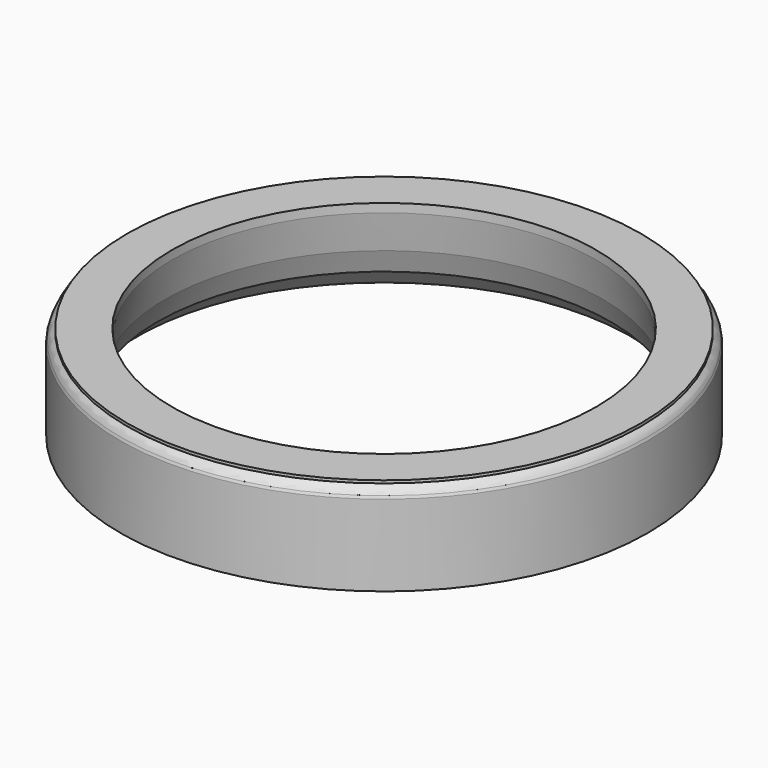
from build123d import *


with BuildPart() as f1:
    # F0 (on Front) → F1 (revolve)
    with BuildSketch(Plane.XZ):
        with BuildLine():
            Line((12.3, 1.707111), (13.4, 0.644853))
            Line((13.4, 0.644853), (14, 0.298443))
            Line((14, 0.298443), (14.3, 0.298443))
            Line((14.3, 0.298443), (14.3, 4.698443))
            Line((14.3, 4.698443), (14.248697, 4.839397))
            ThreePointArc((14.248697, 4.839397), (14.116123, 5.072353), (13.914043, 5.248443))
            Line((13.914043, 5.248443), (13.914043, 5.398443))
            Line((13.914043, 5.398443), (11.5, 5.398443))
            Line((11.5, 5.398443), (11.5, 4.928424))
            Line((11.5, 4.928424), (11.85, 2.943476))
            Line((11.85, 2.943476), (12.3, 1.707111))
        make_face()
    revolve(axis=Axis((0, 0, 7.063824), (0, 0, 1)))


solid = f1.part
